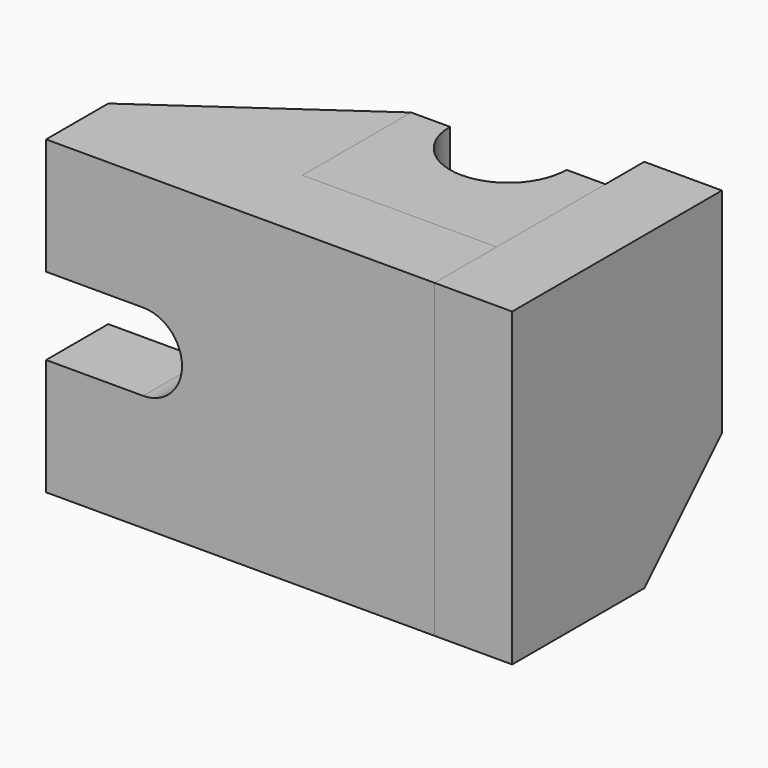
from build123d import *

# Parameters (mm, degrees)
F1_DEPTH = 406.4
F3_DEPTH = 304.8
F6_DEPTH = 1066.8
F7_DEPTH = 406.4


with BuildPart() as f1:
    # F0 (on Front) → F1 (new body)
    with BuildSketch(Plane.XZ):
        with BuildLine():
            Line((-54.5059, 0), (1977.4941, 0))
            Line((1977.4941, 0), (1977.4941, 1625.6))
            Line((1977.4941, 1625.6), (-54.5059, 1625.6))
            Line((-54.5059, 1625.6), (-54.5059, 1016))
            Line((-54.5059, 1016), (453.4941, 1016))
            ThreePointArc((453.4941, 1016), (656.6941, 812.8), (453.4941, 609.6))
            Line((453.4941, 609.6), (-54.5059, 609.6))
            Line((-54.5059, 609.6), (-54.5059, 0))
        make_face()
    extrude(amount=F1_DEPTH)

    # F2 (on face) → F3 (join)
    with BuildSketch(Plane.XY.offset(1625.6)):
        Polygon((961.4941, 711.2), (-54.5059, 0), (961.4941, 0), align=None)
    extrude(amount=-F3_DEPTH)


with BuildPart() as f6:
    # F5 (on face) → F6 (new body)
    with BuildSketch(Plane.XY.offset(1625.6)):
        with BuildLine():
            Line((1164.6941, 711.2), (961.4941, 711.2))
            Line((961.4941, 711.2), (961.4941, 0))
            Line((961.4941, 0), (1977.4941, 0))
            Line((1977.4941, 0), (1977.4941, 711.2))
            Line((1977.4941, 711.2), (1774.2941, 711.2))
            ThreePointArc((1774.2941, 711.2), (1469.4941, 406.4), (1164.6941, 711.2))
        make_face()
    extrude(amount=-F6_DEPTH)


with BuildPart() as f7:
    # F4 (on face) → F7 (new body)
    with BuildSketch(Plane.YZ.offset(1977.4941)):
        Polygon((965.2, 508), (965.2, 1625.6), (-406.4, 1625.6), (-406.4, 0), (457.2, 0), align=None)
    extrude(amount=F7_DEPTH)


solid = Compound([f1.part, f6.part, f7.part])
